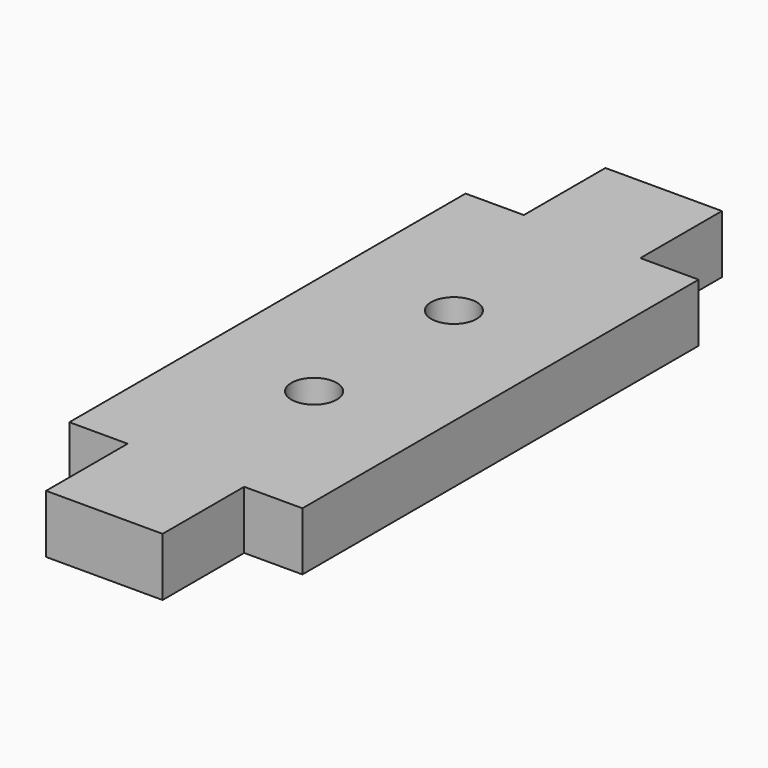
from build123d import *

# Parameters (mm, degrees)
F0_R     = 2.4765
F1_DEPTH = 6.35


with BuildPart() as f1:
    # F0 (on Top) → F1 (new body)
    with BuildSketch(Plane.XY):
        Polygon((-6.35, 26.9875), (-12.7, 26.9875), (-12.7, -26.9875), (-6.35, -26.9875), (-6.35, -38.1), (6.35, -38.1), (6.35, -26.9875), (12.7, -26.9875), (12.7, 26.9875), (6.35, 26.9875), (6.35, 38.1), (-6.35, 38.1), align=None)
        with Locations((0, -9.525)):
            Circle(F0_R, mode=Mode.SUBTRACT)
        with Locations((0, 9.525)):
            Circle(F0_R, mode=Mode.SUBTRACT)
    extrude(amount=F1_DEPTH)


solid = f1.part
